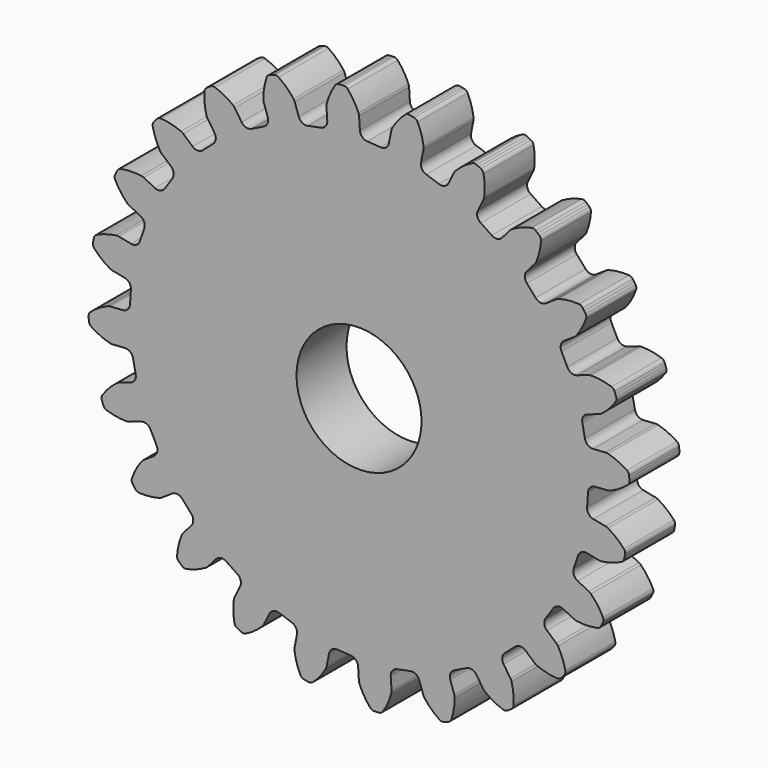
from build123d import *

# Parameters (mm, degrees)
F1_DEPTH = 6.35
F3_D     = 12.7


with BuildPart() as f1:
    # F0 (on Front) → F1 (new body)
    with BuildSketch(Plane.XZ):
        with BuildLine():
            ThreePointArc((0.008093, 25.276519), (-0.010369, 25.402007), (-0.048741, 25.522902))
            ThreePointArc((-0.048741, 25.522902), (-0.524127, 26.457338), (-1.146786, 27.300817))
            ThreePointArc((-1.146786, 27.300817), (-1.330322, 27.43386), (-1.553456, 27.473822))
            Line((-1.553456, 27.473822), (-1.799957, 27.462033))
            Line((-1.799957, 27.462033), (-2.045887, 27.441547))
            ThreePointArc((-2.045887, 27.441547), (-2.261896, 27.372801), (-2.426497, 27.21694))
            ThreePointArc((-2.426497, 27.21694), (-2.933732, 26.299404), (-3.283083, 25.310912))
            ThreePointArc((-3.283083, 25.310912), (-3.305347, 25.186043), (-3.307272, 25.059219))
            Line((-3.307272, 25.059219), (-3.223817, 23.785943))
            ThreePointArc((-3.223817, 23.785943), (-3.39186, 23.2461), (-3.878372, 22.958045))
            Line((-3.878372, 22.958045), (-5.202515, 22.694657))
            ThreePointArc((-5.202515, 22.694657), (-5.762227, 22.774604), (-6.124068, 23.209047))
            Line((-6.124068, 23.209047), (-6.534227, 24.417337))
            ThreePointArc((-6.534227, 24.417337), (-6.584539, 24.533771), (-6.652894, 24.640615))
            ThreePointArc((-6.652894, 24.640615), (-7.353931, 25.420172), (-8.173682, 26.073754))
            ThreePointArc((-8.173682, 26.073754), (-8.385398, 26.154761), (-8.611272, 26.13561))
            Line((-8.611272, 26.13561), (-8.846322, 26.060423))
            Line((-8.846322, 26.060423), (-9.07857, 25.976984))
            ThreePointArc((-9.07857, 25.976984), (-9.269426, 25.854674), (-9.388078, 25.661522))
            ThreePointArc((-9.388078, 25.661522), (-9.640554, 24.643968), (-9.722161, 23.598739))
            ThreePointArc((-9.722161, 23.598739), (-9.711347, 23.472362), (-9.680382, 23.349361))
            Line((-9.680382, 23.349361), (-9.270223, 22.141071))
            ThreePointArc((-9.270223, 22.141071), (-9.292818, 21.57613), (-9.688199, 21.171972))
            Line((-9.688199, 21.171972), (-10.899053, 20.574845))
            ThreePointArc((-10.899053, 20.574845), (-11.460386, 20.507204), (-11.922339, 20.833193))
            Line((-11.922339, 20.833193), (-12.63125, 21.894154))
            ThreePointArc((-12.63125, 21.894154), (-12.709984, 21.993599), (-12.803662, 22.079111))
            ThreePointArc((-12.803662, 22.079111), (-13.682576, 22.650663), (-14.643554, 23.069808))
            ThreePointArc((-14.643554, 23.069808), (-14.869023, 23.093259), (-15.082244, 23.0163))
            Line((-15.082244, 23.0163), (-15.289825, 22.88284))
            Line((-15.289825, 22.88284), (-15.492564, 22.742133))
            ThreePointArc((-15.492564, 22.742133), (-15.64526, 22.574593), (-15.709878, 22.357314))
            ThreePointArc((-15.709878, 22.357314), (-15.690389, 21.309086), (-15.498689, 20.278351))
            ThreePointArc((-15.498689, 20.278351), (-15.455535, 20.159079), (-15.393791, 20.048284))
            Line((-15.393791, 20.048284), (-14.684879, 18.987322))
            ThreePointArc((-14.684879, 18.987322), (-14.560487, 18.435783), (-14.837791, 17.943065))
            Line((-14.837791, 17.943065), (-15.852839, 17.052892))
            ThreePointArc((-15.852839, 17.052892), (-16.377537, 16.842272), (-16.908122, 17.037591))
            Line((-16.908122, 17.037591), (-17.867475, 17.878921))
            ThreePointArc((-17.867475, 17.878921), (-17.969264, 17.954599), (-18.081882, 18.012952))
            ThreePointArc((-18.081882, 18.012952), (-19.078777, 18.337549), (-20.115493, 18.493693))
            ThreePointArc((-20.115493, 18.493693), (-20.339348, 18.457989), (-20.525386, 18.328467))
            Line((-20.525386, 18.328467), (-20.691351, 18.145828))
            Line((-20.691351, 18.145828), (-20.850764, 17.957443))
            ThreePointArc((-20.850764, 17.957443), (-20.954896, 17.756091), (-20.961075, 17.529491))
            ThreePointArc((-20.961075, 17.529491), (-20.670949, 16.522025), (-20.219008, 15.576027))
            ThreePointArc((-20.219008, 15.576027), (-20.146455, 15.471989), (-20.058138, 15.380949))
            Line((-20.058138, 15.380949), (-19.098785, 14.539619))
            ThreePointArc((-19.098785, 14.539619), (-18.835882, 14.039068), (-18.976212, 13.491367))
            Line((-18.976212, 13.491367), (-19.72628, 12.368812))
            ThreePointArc((-19.72628, 12.368812), (-20.178587, 12.029567), (-20.741645, 12.080905))
            Line((-20.741645, 12.080905), (-21.886061, 12.645269))
            ThreePointArc((-21.886061, 12.645269), (-22.003968, 12.692023), (-22.127852, 12.71924))
            ThreePointArc((-22.127852, 12.71924), (-23.17479, 12.774761), (-24.216594, 12.657263))
            ThreePointArc((-24.216594, 12.657263), (-24.423581, 12.564837), (-24.569756, 12.391579))
            Line((-24.569756, 12.391579), (-24.682796, 12.172208))
            Line((-24.682796, 12.172208), (-24.78802, 11.948983))
            ThreePointArc((-24.78802, 11.948983), (-24.83649, 11.727541), (-24.78381, 11.507062))
            ThreePointArc((-24.78381, 11.507062), (-24.242818, 10.609015), (-23.561434, 9.812223))
            ThreePointArc((-23.561434, 9.812223), (-23.464426, 9.730507), (-23.355556, 9.665428))
            Line((-23.355556, 9.665428), (-22.211139, 9.101064))
            ThreePointArc((-22.211139, 9.101064), (-21.827643, 8.685613), (-21.821436, 8.120254))
            Line((-21.821436, 8.120254), (-22.255407, 6.841818))
            ThreePointArc((-22.255407, 6.841818), (-22.6045, 6.397067), (-23.161658, 6.300925))
            Line((-23.161658, 6.300925), (-24.413148, 6.549862))
            ThreePointArc((-24.413148, 6.549862), (-24.539138, 6.564507), (-24.665845, 6.558733))
            ThreePointArc((-24.665845, 6.558733), (-25.69148, 6.341395), (-26.667374, 5.958261))
            ThreePointArc((-26.667374, 5.958261), (-26.843387, 5.815413), (-26.939739, 5.610225))
            Line((-26.939739, 5.610225), (-26.99215, 5.369072))
            Line((-26.99215, 5.369072), (-27.036013, 5.12622))
            ThreePointArc((-27.036013, 5.12622), (-27.025518, 4.899778), (-26.917569, 4.700447))
            ThreePointArc((-26.917569, 4.700447), (-26.162579, 3.973019), (-25.298188, 3.379731))
            ThreePointArc((-25.298188, 3.379731), (-25.183336, 3.325908), (-25.061331, 3.291224))
            Line((-25.061331, 3.291224), (-23.809842, 3.042287))
            ThreePointArc((-23.809842, 3.042287), (-23.331886, 2.740248), (-23.179565, 2.19576))
            Line((-23.179565, 2.19576), (-23.267865, 0.848565))
            ThreePointArc((-23.267865, 0.848565), (-23.489953, 0.328617), (-24.003244, 0.091548))
            Line((-24.003244, 0.091548), (-25.276519, 0.008093))
            ThreePointArc((-25.276519, 0.008093), (-25.402007, -0.010369), (-25.522902, -0.048741))
            ThreePointArc((-25.522902, -0.048741), (-26.457338, -0.524127), (-27.300817, -1.146786))
            ThreePointArc((-27.300817, -1.146786), (-27.43386, -1.330322), (-27.473822, -1.553456))
            Line((-27.473822, -1.553456), (-27.462033, -1.799957))
            Line((-27.462033, -1.799957), (-27.441547, -2.045887))
            ThreePointArc((-27.441547, -2.045887), (-27.372801, -2.261896), (-27.21694, -2.426497))
            ThreePointArc((-27.21694, -2.426497), (-26.299404, -2.933732), (-25.310912, -3.283083))
            ThreePointArc((-25.310912, -3.283083), (-25.186043, -3.305347), (-25.059219, -3.307272))
            Line((-25.059219, -3.307272), (-23.785943, -3.223817))
            ThreePointArc((-23.785943, -3.223817), (-23.2461, -3.39186), (-22.958045, -3.878372))
            Line((-22.958045, -3.878372), (-22.694657, -5.202515))
            ThreePointArc((-22.694657, -5.202515), (-22.774604, -5.762227), (-23.209047, -6.124068))
            Line((-23.209047, -6.124068), (-24.417337, -6.534227))
            ThreePointArc((-24.417337, -6.534227), (-24.533771, -6.584539), (-24.640615, -6.652894))
            ThreePointArc((-24.640615, -6.652894), (-25.420172, -7.353931), (-26.073754, -8.173682))
            ThreePointArc((-26.073754, -8.173682), (-26.154761, -8.385398), (-26.13561, -8.611272))
            Line((-26.13561, -8.611272), (-26.060423, -8.846322))
            Line((-26.060423, -8.846322), (-25.976984, -9.07857))
            ThreePointArc((-25.976984, -9.07857), (-25.854674, -9.269426), (-25.661522, -9.388078))
            ThreePointArc((-25.661522, -9.388078), (-24.643968, -9.640554), (-23.598739, -9.722161))
            ThreePointArc((-23.598739, -9.722161), (-23.472362, -9.711347), (-23.349361, -9.680382))
            Line((-23.349361, -9.680382), (-22.141071, -9.270223))
            ThreePointArc((-22.141071, -9.270223), (-21.57613, -9.292818), (-21.171972, -9.688199))
            Line((-21.171972, -9.688199), (-20.574845, -10.899053))
            ThreePointArc((-20.574845, -10.899053), (-20.507204, -11.460386), (-20.833193, -11.922339))
            Line((-20.833193, -11.922339), (-21.894154, -12.63125))
            ThreePointArc((-21.894154, -12.63125), (-21.993599, -12.709984), (-22.079111, -12.803662))
            ThreePointArc((-22.079111, -12.803662), (-22.650663, -13.682576), (-23.069808, -14.643554))
            ThreePointArc((-23.069808, -14.643554), (-23.093259, -14.869023), (-23.0163, -15.082244))
            Line((-23.0163, -15.082244), (-22.88284, -15.289825))
            Line((-22.88284, -15.289825), (-22.742133, -15.492564))
            ThreePointArc((-22.742133, -15.492564), (-22.574593, -15.64526), (-22.357314, -15.709878))
            ThreePointArc((-22.357314, -15.709878), (-21.309086, -15.690389), (-20.278351, -15.498689))
            ThreePointArc((-20.278351, -15.498689), (-20.159079, -15.455535), (-20.048284, -15.393791))
            Line((-20.048284, -15.393791), (-18.987322, -14.684879))
            ThreePointArc((-18.987322, -14.684879), (-18.435783, -14.560487), (-17.943065, -14.837791))
            Line((-17.943065, -14.837791), (-17.052892, -15.852839))
            ThreePointArc((-17.052892, -15.852839), (-16.842272, -16.377537), (-17.037591, -16.908122))
            Line((-17.037591, -16.908122), (-17.878921, -17.867475))
            ThreePointArc((-17.878921, -17.867475), (-17.954599, -17.969264), (-18.012952, -18.081882))
            ThreePointArc((-18.012952, -18.081882), (-18.337549, -19.078777), (-18.493693, -20.115493))
            ThreePointArc((-18.493693, -20.115493), (-18.457989, -20.339348), (-18.328467, -20.525386))
            Line((-18.328467, -20.525386), (-18.145828, -20.691351))
            Line((-18.145828, -20.691351), (-17.957443, -20.850764))
            ThreePointArc((-17.957443, -20.850764), (-17.756091, -20.954896), (-17.529491, -20.961075))
            ThreePointArc((-17.529491, -20.961075), (-16.522025, -20.670949), (-15.576027, -20.219008))
            ThreePointArc((-15.576027, -20.219008), (-15.471989, -20.146455), (-15.380949, -20.058138))
            Line((-15.380949, -20.058138), (-14.539619, -19.098785))
            ThreePointArc((-14.539619, -19.098785), (-14.039068, -18.835882), (-13.491367, -18.976212))
            Line((-13.491367, -18.976212), (-12.368812, -19.72628))
            ThreePointArc((-12.368812, -19.72628), (-12.029567, -20.178587), (-12.080905, -20.741645))
            Line((-12.080905, -20.741645), (-12.645269, -21.886061))
            ThreePointArc((-12.645269, -21.886061), (-12.692023, -22.003968), (-12.71924, -22.127852))
            ThreePointArc((-12.71924, -22.127852), (-12.774761, -23.17479), (-12.657263, -24.216594))
            ThreePointArc((-12.657263, -24.216594), (-12.564837, -24.423581), (-12.391579, -24.569756))
            Line((-12.391579, -24.569756), (-12.172208, -24.682796))
            Line((-12.172208, -24.682796), (-11.948983, -24.78802))
            ThreePointArc((-11.948983, -24.78802), (-11.727541, -24.83649), (-11.507062, -24.78381))
            ThreePointArc((-11.507062, -24.78381), (-10.609015, -24.242818), (-9.812223, -23.561434))
            ThreePointArc((-9.812223, -23.561434), (-9.730507, -23.464426), (-9.665428, -23.355556))
            Line((-9.665428, -23.355556), (-9.101064, -22.211139))
            ThreePointArc((-9.101064, -22.211139), (-8.685613, -21.827643), (-8.120254, -21.821436))
            Line((-8.120254, -21.821436), (-6.841818, -22.255407))
            ThreePointArc((-6.841818, -22.255407), (-6.397067, -22.6045), (-6.300925, -23.161658))
            Line((-6.300925, -23.161658), (-6.549862, -24.413148))
            ThreePointArc((-6.549862, -24.413148), (-6.564507, -24.539138), (-6.558733, -24.665845))
            ThreePointArc((-6.558733, -24.665845), (-6.341395, -25.69148), (-5.958261, -26.667374))
            ThreePointArc((-5.958261, -26.667374), (-5.815413, -26.843387), (-5.610225, -26.939739))
            Line((-5.610225, -26.939739), (-5.369072, -26.99215))
            Line((-5.369072, -26.99215), (-5.12622, -27.036013))
            ThreePointArc((-5.12622, -27.036013), (-4.899778, -27.025518), (-4.700447, -26.917569))
            ThreePointArc((-4.700447, -26.917569), (-3.973019, -26.162579), (-3.379731, -25.298188))
            ThreePointArc((-3.379731, -25.298188), (-3.325908, -25.183336), (-3.291224, -25.061331))
            Line((-3.291224, -25.061331), (-3.042287, -23.809842))
            ThreePointArc((-3.042287, -23.809842), (-2.740248, -23.331886), (-2.19576, -23.179565))
            Line((-2.19576, -23.179565), (-0.848565, -23.267865))
            ThreePointArc((-0.848565, -23.267865), (-0.328617, -23.489953), (-0.091548, -24.003244))
            Line((-0.091548, -24.003244), (-0.008093, -25.276519))
            ThreePointArc((-0.008093, -25.276519), (0.010369, -25.402007), (0.048741, -25.522902))
            ThreePointArc((0.048741, -25.522902), (0.524127, -26.457338), (1.146786, -27.300817))
            ThreePointArc((1.146786, -27.300817), (1.330322, -27.43386), (1.553456, -27.473822))
            Line((1.553456, -27.473822), (1.799957, -27.462033))
            Line((1.799957, -27.462033), (2.045887, -27.441547))
            ThreePointArc((2.045887, -27.441547), (2.261896, -27.372801), (2.426497, -27.21694))
            ThreePointArc((2.426497, -27.21694), (2.933732, -26.299404), (3.283083, -25.310912))
            ThreePointArc((3.283083, -25.310912), (3.305347, -25.186043), (3.307272, -25.059219))
            Line((3.307272, -25.059219), (3.223817, -23.785943))
            ThreePointArc((3.223817, -23.785943), (3.39186, -23.2461), (3.878372, -22.958045))
            Line((3.878372, -22.958045), (5.202515, -22.694657))
            ThreePointArc((5.202515, -22.694657), (5.762227, -22.774604), (6.124068, -23.209047))
            Line((6.124068, -23.209047), (6.534227, -24.417337))
            ThreePointArc((6.534227, -24.417337), (6.584539, -24.533771), (6.652894, -24.640615))
            ThreePointArc((6.652894, -24.640615), (7.353931, -25.420172), (8.173682, -26.073754))
            ThreePointArc((8.173682, -26.073754), (8.385398, -26.154761), (8.611272, -26.13561))
            Line((8.611272, -26.13561), (8.846322, -26.060423))
            Line((8.846322, -26.060423), (9.07857, -25.976984))
            ThreePointArc((9.07857, -25.976984), (9.269426, -25.854674), (9.388078, -25.661522))
            ThreePointArc((9.388078, -25.661522), (9.640554, -24.643968), (9.722161, -23.598739))
            ThreePointArc((9.722161, -23.598739), (9.711347, -23.472362), (9.680382, -23.349361))
            Line((9.680382, -23.349361), (9.270223, -22.141071))
            ThreePointArc((9.270223, -22.141071), (9.292818, -21.57613), (9.688199, -21.171972))
            Line((9.688199, -21.171972), (10.899053, -20.574845))
            ThreePointArc((10.899053, -20.574845), (11.460386, -20.507204), (11.922339, -20.833193))
            Line((11.922339, -20.833193), (12.63125, -21.894154))
            ThreePointArc((12.63125, -21.894154), (12.709984, -21.993599), (12.803662, -22.079111))
            ThreePointArc((12.803662, -22.079111), (13.682576, -22.650663), (14.643554, -23.069808))
            ThreePointArc((14.643554, -23.069808), (14.869023, -23.093259), (15.082244, -23.0163))
            Line((15.082244, -23.0163), (15.289825, -22.88284))
            Line((15.289825, -22.88284), (15.492564, -22.742133))
            ThreePointArc((15.492564, -22.742133), (15.64526, -22.574593), (15.709878, -22.357314))
            ThreePointArc((15.709878, -22.357314), (15.690389, -21.309086), (15.498689, -20.278351))
            ThreePointArc((15.498689, -20.278351), (15.455535, -20.159079), (15.393791, -20.048284))
            Line((15.393791, -20.048284), (14.684879, -18.987322))
            ThreePointArc((14.684879, -18.987322), (14.560487, -18.435783), (14.837791, -17.943065))
            Line((14.837791, -17.943065), (15.852839, -17.052892))
            ThreePointArc((15.852839, -17.052892), (16.377537, -16.842272), (16.908122, -17.037591))
            Line((16.908122, -17.037591), (17.867475, -17.878921))
            ThreePointArc((17.867475, -17.878921), (17.969264, -17.954599), (18.081882, -18.012952))
            ThreePointArc((18.081882, -18.012952), (19.078777, -18.337549), (20.115493, -18.493693))
            ThreePointArc((20.115493, -18.493693), (20.339348, -18.457989), (20.525386, -18.328467))
            Line((20.525386, -18.328467), (20.691351, -18.145828))
            Line((20.691351, -18.145828), (20.850764, -17.957443))
            ThreePointArc((20.850764, -17.957443), (20.954896, -17.756091), (20.961075, -17.529491))
            ThreePointArc((20.961075, -17.529491), (20.670949, -16.522025), (20.219008, -15.576027))
            ThreePointArc((20.219008, -15.576027), (20.146455, -15.471989), (20.058138, -15.380949))
            Line((20.058138, -15.380949), (19.098785, -14.539619))
            ThreePointArc((19.098785, -14.539619), (18.835882, -14.039068), (18.976212, -13.491367))
            Line((18.976212, -13.491367), (19.72628, -12.368812))
            ThreePointArc((19.72628, -12.368812), (20.178587, -12.029567), (20.741645, -12.080905))
            Line((20.741645, -12.080905), (21.886061, -12.645269))
            ThreePointArc((21.886061, -12.645269), (22.003968, -12.692023), (22.127852, -12.71924))
            ThreePointArc((22.127852, -12.71924), (23.17479, -12.774761), (24.216594, -12.657263))
            ThreePointArc((24.216594, -12.657263), (24.423581, -12.564837), (24.569756, -12.391579))
            Line((24.569756, -12.391579), (24.682796, -12.172208))
            Line((24.682796, -12.172208), (24.78802, -11.948983))
            ThreePointArc((24.78802, -11.948983), (24.83649, -11.727541), (24.78381, -11.507062))
            ThreePointArc((24.78381, -11.507062), (24.242818, -10.609015), (23.561434, -9.812223))
            ThreePointArc((23.561434, -9.812223), (23.464426, -9.730507), (23.355556, -9.665428))
            Line((23.355556, -9.665428), (22.211139, -9.101064))
            ThreePointArc((22.211139, -9.101064), (21.827643, -8.685613), (21.821436, -8.120254))
            Line((21.821436, -8.120254), (22.255407, -6.841818))
            ThreePointArc((22.255407, -6.841818), (22.6045, -6.397067), (23.161658, -6.300925))
            Line((23.161658, -6.300925), (24.413148, -6.549862))
            ThreePointArc((24.413148, -6.549862), (24.539138, -6.564507), (24.665845, -6.558733))
            ThreePointArc((24.665845, -6.558733), (25.69148, -6.341395), (26.667374, -5.958261))
            ThreePointArc((26.667374, -5.958261), (26.843387, -5.815413), (26.939739, -5.610225))
            Line((26.939739, -5.610225), (26.99215, -5.369072))
            Line((26.99215, -5.369072), (27.036013, -5.12622))
            ThreePointArc((27.036013, -5.12622), (27.025518, -4.899778), (26.917569, -4.700447))
            ThreePointArc((26.917569, -4.700447), (26.162579, -3.973019), (25.298188, -3.379731))
            ThreePointArc((25.298188, -3.379731), (25.183336, -3.325908), (25.061331, -3.291224))
            Line((25.061331, -3.291224), (23.809842, -3.042287))
            ThreePointArc((23.809842, -3.042287), (23.331886, -2.740248), (23.179565, -2.19576))
            Line((23.179565, -2.19576), (23.267865, -0.848565))
            ThreePointArc((23.267865, -0.848565), (23.489953, -0.328617), (24.003244, -0.091548))
            Line((24.003244, -0.091548), (25.276519, -0.008093))
            ThreePointArc((25.276519, -0.008093), (25.402007, 0.010369), (25.522902, 0.048741))
            ThreePointArc((25.522902, 0.048741), (26.457338, 0.524127), (27.300817, 1.146786))
            ThreePointArc((27.300817, 1.146786), (27.43386, 1.330322), (27.473822, 1.553456))
            Line((27.473822, 1.553456), (27.462033, 1.799957))
            Line((27.462033, 1.799957), (27.441547, 2.045887))
            ThreePointArc((27.441547, 2.045887), (27.372801, 2.261896), (27.21694, 2.426497))
            ThreePointArc((27.21694, 2.426497), (26.299404, 2.933732), (25.310912, 3.283083))
            ThreePointArc((25.310912, 3.283083), (25.186043, 3.305347), (25.059219, 3.307272))
            Line((25.059219, 3.307272), (23.785943, 3.223817))
            ThreePointArc((23.785943, 3.223817), (23.2461, 3.39186), (22.958045, 3.878372))
            Line((22.958045, 3.878372), (22.694657, 5.202515))
            ThreePointArc((22.694657, 5.202515), (22.774604, 5.762227), (23.209047, 6.124068))
            Line((23.209047, 6.124068), (24.417337, 6.534227))
            ThreePointArc((24.417337, 6.534227), (24.533771, 6.584539), (24.640615, 6.652894))
            ThreePointArc((24.640615, 6.652894), (25.420172, 7.353931), (26.073754, 8.173682))
            ThreePointArc((26.073754, 8.173682), (26.154761, 8.385398), (26.13561, 8.611272))
            Line((26.13561, 8.611272), (26.060423, 8.846322))
            Line((26.060423, 8.846322), (25.976984, 9.07857))
            ThreePointArc((25.976984, 9.07857), (25.854674, 9.269426), (25.661522, 9.388078))
            ThreePointArc((25.661522, 9.388078), (24.643968, 9.640554), (23.598739, 9.722161))
            ThreePointArc((23.598739, 9.722161), (23.472362, 9.711347), (23.349361, 9.680382))
            Line((23.349361, 9.680382), (22.141071, 9.270223))
            ThreePointArc((22.141071, 9.270223), (21.57613, 9.292818), (21.171972, 9.688199))
            Line((21.171972, 9.688199), (20.574845, 10.899053))
            ThreePointArc((20.574845, 10.899053), (20.507204, 11.460386), (20.833193, 11.922339))
            Line((20.833193, 11.922339), (21.894154, 12.63125))
            ThreePointArc((21.894154, 12.63125), (21.993599, 12.709984), (22.079111, 12.803662))
            ThreePointArc((22.079111, 12.803662), (22.650663, 13.682576), (23.069808, 14.643554))
            ThreePointArc((23.069808, 14.643554), (23.093259, 14.869023), (23.0163, 15.082244))
            Line((23.0163, 15.082244), (22.88284, 15.289825))
            Line((22.88284, 15.289825), (22.742133, 15.492564))
            ThreePointArc((22.742133, 15.492564), (22.574593, 15.64526), (22.357314, 15.709878))
            ThreePointArc((22.357314, 15.709878), (21.309086, 15.690389), (20.278351, 15.498689))
            ThreePointArc((20.278351, 15.498689), (20.159079, 15.455535), (20.048284, 15.393791))
            Line((20.048284, 15.393791), (18.987322, 14.684879))
            ThreePointArc((18.987322, 14.684879), (18.435783, 14.560487), (17.943065, 14.837791))
            Line((17.943065, 14.837791), (17.052892, 15.852839))
            ThreePointArc((17.052892, 15.852839), (16.842272, 16.377537), (17.037591, 16.908122))
            Line((17.037591, 16.908122), (17.878921, 17.867475))
            ThreePointArc((17.878921, 17.867475), (17.954599, 17.969264), (18.012952, 18.081882))
            ThreePointArc((18.012952, 18.081882), (18.337549, 19.078777), (18.493693, 20.115493))
            ThreePointArc((18.493693, 20.115493), (18.457989, 20.339348), (18.328467, 20.525386))
            Line((18.328467, 20.525386), (18.145828, 20.691351))
            Line((18.145828, 20.691351), (17.957443, 20.850764))
            ThreePointArc((17.957443, 20.850764), (17.756091, 20.954896), (17.529491, 20.961075))
            ThreePointArc((17.529491, 20.961075), (16.522025, 20.670949), (15.576027, 20.219008))
            ThreePointArc((15.576027, 20.219008), (15.471989, 20.146455), (15.380949, 20.058138))
            Line((15.380949, 20.058138), (14.539619, 19.098785))
            ThreePointArc((14.539619, 19.098785), (14.039068, 18.835882), (13.491367, 18.976212))
            Line((13.491367, 18.976212), (12.368812, 19.72628))
            ThreePointArc((12.368812, 19.72628), (12.029567, 20.178587), (12.080905, 20.741645))
            Line((12.080905, 20.741645), (12.645269, 21.886061))
            ThreePointArc((12.645269, 21.886061), (12.692023, 22.003968), (12.71924, 22.127852))
            ThreePointArc((12.71924, 22.127852), (12.774761, 23.17479), (12.657263, 24.216594))
            ThreePointArc((12.657263, 24.216594), (12.564837, 24.423581), (12.391579, 24.569756))
            Line((12.391579, 24.569756), (12.172208, 24.682796))
            Line((12.172208, 24.682796), (11.948983, 24.78802))
            ThreePointArc((11.948983, 24.78802), (11.727541, 24.83649), (11.507062, 24.78381))
            ThreePointArc((11.507062, 24.78381), (10.609015, 24.242818), (9.812223, 23.561434))
            ThreePointArc((9.812223, 23.561434), (9.730507, 23.464426), (9.665428, 23.355556))
            Line((9.665428, 23.355556), (9.101064, 22.211139))
            ThreePointArc((9.101064, 22.211139), (8.685613, 21.827643), (8.120254, 21.821436))
            Line((8.120254, 21.821436), (6.841818, 22.255407))
            ThreePointArc((6.841818, 22.255407), (6.397067, 22.6045), (6.300925, 23.161658))
            Line((6.300925, 23.161658), (6.549862, 24.413148))
            ThreePointArc((6.549862, 24.413148), (6.564507, 24.539138), (6.558733, 24.665845))
            ThreePointArc((6.558733, 24.665845), (6.341395, 25.69148), (5.958261, 26.667374))
            ThreePointArc((5.958261, 26.667374), (5.815413, 26.843387), (5.610225, 26.939739))
            Line((5.610225, 26.939739), (5.369072, 26.99215))
            Line((5.369072, 26.99215), (5.12622, 27.036013))
            ThreePointArc((5.12622, 27.036013), (4.899778, 27.025518), (4.700447, 26.917569))
            ThreePointArc((4.700447, 26.917569), (3.973019, 26.162579), (3.379731, 25.298188))
            ThreePointArc((3.379731, 25.298188), (3.325908, 25.183336), (3.291224, 25.061331))
            Line((3.291224, 25.061331), (3.042287, 23.809842))
            ThreePointArc((3.042287, 23.809842), (2.740248, 23.331886), (2.19576, 23.179565))
            Line((2.19576, 23.179565), (0.848565, 23.267865))
            ThreePointArc((0.848565, 23.267865), (0.328617, 23.489953), (0.091548, 24.003244))
            Line((0.091548, 24.003244), (0.008093, 25.276519))
        make_face()
    extrude(amount=F1_DEPTH)

    # F3 (through all)
    with Locations(Plane.XZ.offset(6.35)):
        with Locations((0, 0)):
            Hole(F3_D / 2)


solid = f1.part
